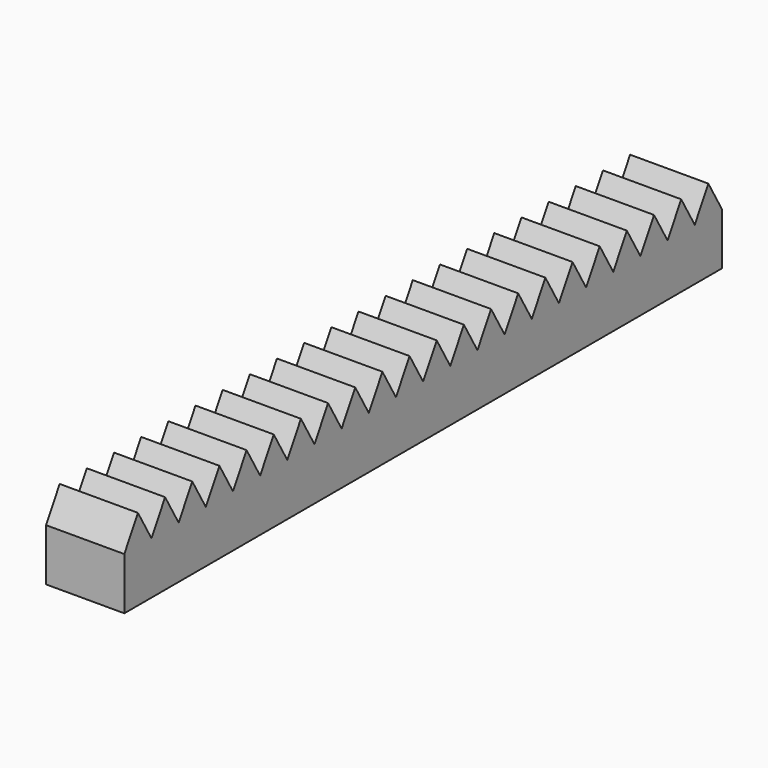
from build123d import *

# Parameters (mm, degrees)
F1_DEPTH = 3.75


with BuildPart() as f1:
    # F0 (on Right) → F1 (new body, symmetric)
    with BuildSketch(Plane.YZ):
        Polygon((35.795455, -2.5), (35.795455, 2.5), (32.541322, 2.5), (29.28719, 2.5), (26.033058, 2.5), (22.778926, 2.5), (19.524793, 2.5), (16.270661, 2.5), (13.016529, 2.5), (9.762397, 2.5), (6.508264, 2.5), (3.254132, 2.5), (0, 2.5), (-3.254132, 2.5), (-6.508264, 2.5), (-9.762397, 2.5), (-13.016529, 2.5), (-16.270661, 2.5), (-19.524793, 2.5), (-22.778926, 2.5), (-26.033058, 2.5), (-29.28719, 2.5), (-32.541322, 2.5), (-35.795455, 2.5), (-35.795455, -2.5), align=None)
        Polygon((26.033058, 2.5), (29.28719, 2.5), (27.660124, 5.318161), align=None)
        Polygon((29.28719, 2.5), (32.541322, 2.5), (30.914256, 5.318161), align=None)
        Polygon((32.541322, 2.5), (35.795455, 2.5), (34.168388, 5.318161), align=None)
        Polygon((13.016529, 2.5), (16.270661, 2.5), (14.643595, 5.318161), align=None)
        Polygon((6.508264, 2.5), (9.762397, 2.5), (8.135331, 5.318161), align=None)
        Polygon((16.270661, 2.5), (19.524793, 2.5), (17.897727, 5.318161), align=None)
        Polygon((9.762397, 2.5), (13.016529, 2.5), (11.389463, 5.318161), align=None)
        Polygon((-34.168388, 5.318161), (-35.795455, 2.5), (-32.541322, 2.5), align=None)
        Polygon((-30.914256, 5.318161), (-32.541322, 2.5), (-29.28719, 2.5), align=None)
        Polygon((-27.660124, 5.318161), (-29.28719, 2.5), (-26.033058, 2.5), align=None)
        Polygon((-24.405992, 5.318161), (-26.033058, 2.5), (-22.778926, 2.5), align=None)
        Polygon((-21.15186, 5.318161), (-22.778926, 2.5), (-19.524793, 2.5), align=None)
        Polygon((-17.897727, 5.318161), (-19.524793, 2.5), (-16.270661, 2.5), align=None)
        Polygon((-14.643595, 5.318161), (-16.270661, 2.5), (-13.016529, 2.5), align=None)
        Polygon((-11.389463, 5.318161), (-13.016529, 2.5), (-9.762397, 2.5), align=None)
        Polygon((-8.135331, 5.318161), (-9.762397, 2.5), (-6.508264, 2.5), align=None)
        Polygon((-6.508264, 2.5), (-3.254132, 2.5), (-4.881198, 5.318161), align=None)
        Polygon((-3.254132, 2.5), (0, 2.5), (-1.627066, 5.318161), align=None)
        Polygon((0, 2.5), (3.254132, 2.5), (1.627066, 5.318161), align=None)
        Polygon((3.254132, 2.5), (6.508264, 2.5), (4.881198, 5.318161), align=None)
        Polygon((19.524793, 2.5), (22.778926, 2.5), (21.15186, 5.318161), align=None)
        Polygon((22.778926, 2.5), (26.033058, 2.5), (24.405992, 5.318161), align=None)
    extrude(amount=F1_DEPTH, both=True)


solid = f1.part
